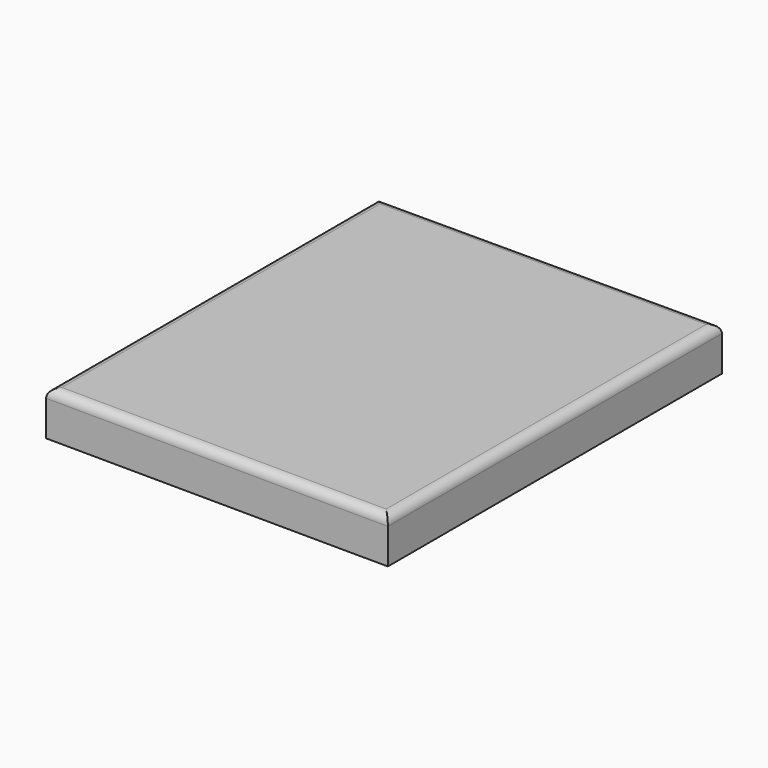
from build123d import *

# Parameters (mm, degrees)
F1_DEPTH = 10
F2_R     = 2


with BuildPart() as f1:
    # F0 (on Top) → F1 (new body)
    with BuildSketch(Plane.XY):
        Polygon((-33.585593, 49.30849), (-33.585593, -44.842813), (44.37764, -45.401026), (44.37764, 49.30849), align=None)
    extrude(amount=F1_DEPTH)

    # F2
    f2_edges = [f1.edges().sort_by_distance(p)[0] for p in [
        (44.37764, 1.953732, 10),
        (5.396023, 49.30849, 10),
        (-33.585593, 2.232838, 10),
        (5.396023, -45.121919, 10),
    ]]
    fillet(f2_edges, radius=F2_R)


solid = f1.part
